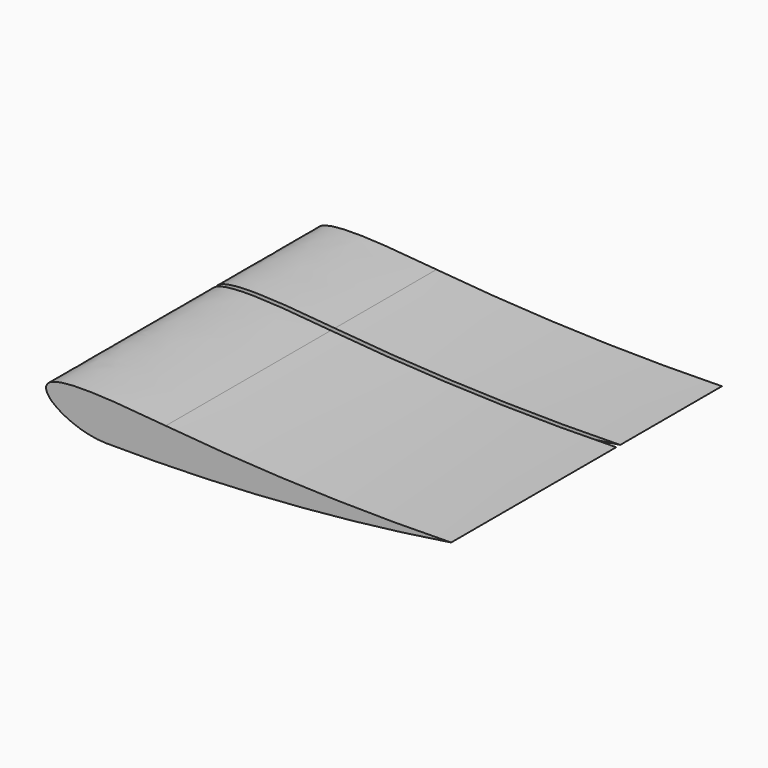
from build123d import *

# Parameters (mm, degrees)
F2_DEPTH = 410
F3_W     = 1559.3330264091
F3_H     = 6
F4_DEPTH = 167.0408719674


with BuildPart() as f2:
    # F1 (on offset) → F2 (new body)
    with BuildSketch(Plane.XZ.offset(-253)):
        with BuildLine():
            ThreePointArc((-988.716, 148.417), (-1161.7816364548, 149.4383400359), (-1334.5, 160.444))
            add(Edge.make_bspline(
                [(-1334.5, 160.444), (-1397.0024748407, 166.242066134), (-1481.8062211749, 173.6092407555), (-1479.6835086501, 139.0946427224), (-1435.1203538419, 118.704540329), (-1406.925201416, 118.39415133)],
                knots=[0, 0, 0, 0, 0.4881791658, 0.646478592, 1, 1, 1, 1], degree=3))
            ThreePointArc((-1406.925201416, 118.39415133), (-1197.1997177342, 124.7568636289), (-988.716, 148.417))
        make_face()
    extrude(amount=-F2_DEPTH)

    # F3 (on Top) → F4 (cut, through all)
    with BuildSketch(Plane.XY):
        with Locations((-930.7109415531, 506)):
            Rectangle(F3_W, F3_H)
    extrude(amount=F4_DEPTH, mode=Mode.SUBTRACT)


solid = f2.part
